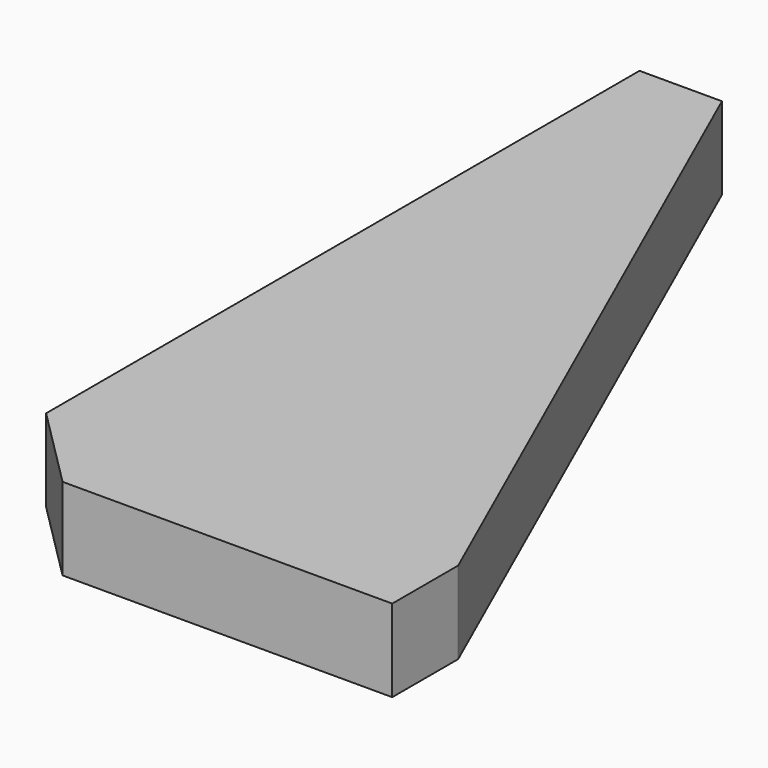
from build123d import *

# Parameters (mm, degrees)
F0_W     = 50
F0_H     = 100
F1_DEPTH = 10
F2_SIZE  = 10
F4_DEPTH = 10.001


with BuildPart() as f1:
    # F0 (on Top) → F1 (new body)
    with BuildSketch(Plane.XY):
        Rectangle(F0_W, F0_H)
    extrude(amount=F1_DEPTH)

    # F2
    f2_edges = [f1.edges().sort_by_distance(p)[0] for p in [
        (-25, -50, 5),
    ]]
    chamfer(f2_edges, length=F2_SIZE)

    # F3 (on face) → F4 (cut, through all)
    with BuildSketch(Plane.XY.offset(10)):
        Polygon((25, 50), (-15, 50), (25, -40), align=None)
    extrude(amount=-F4_DEPTH, mode=Mode.SUBTRACT)


solid = f1.part
